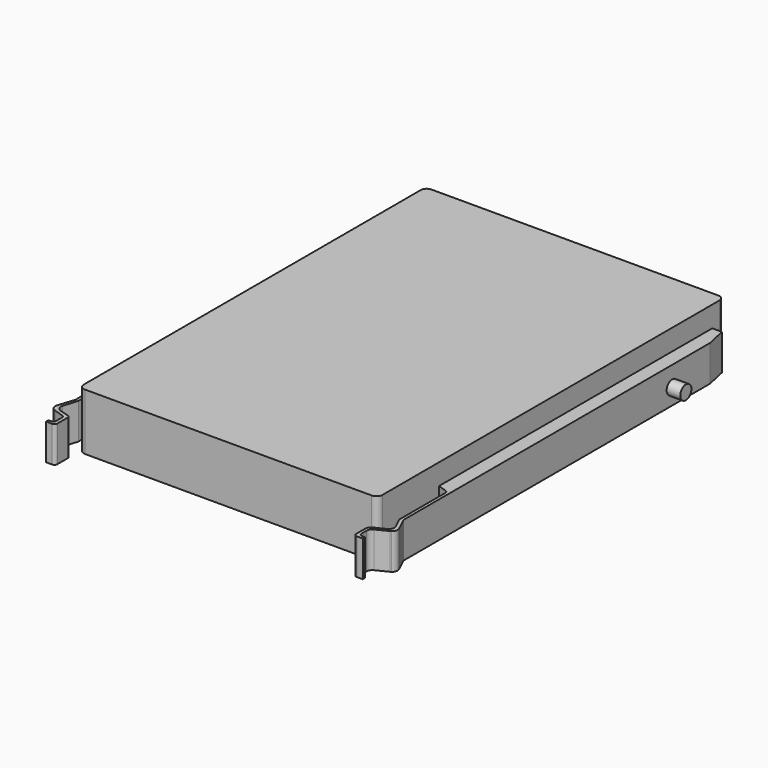
from build123d import *

# Parameters (mm, degrees)
F1_DEPTH       = 19
F3_DEPTH       = 4
F5_DEPTH       = 4
F7_DEPTH       = 12
F8_DEPTH       = 4
F10_DEPTH      = 12
F11_W          = 2
F11_H          = 107.7638715506
F12_DEPTH      = 1
F14_DEPTH      = 2
F16_DEPTH      = 2
F18_DEPTH      = 2
F20_DEPTH      = 2
F22_DEPTH      = 2
F24_DEPTH      = 2
F26_DEPTH      = 2
F28_DEPTH      = 2
F30_DEPTH      = 2
F32_DEPTH      = 2
F33_R          = 3
F34_DEPTH      = 2
F35_R          = 3
F36_DEPTH      = 2
F38_DEPTH      = 2
F39_R          = 2.3395924092
F40_DEPTH      = 4
F40_DEPTH_BACK = 114


with BuildPart() as f1:
    # F0 (on Top) → F1 (new body)
    with BuildSketch(Plane.XY):
        with BuildLine():
            Line((42.7619880306, 65.8262565434), (-53.2380119694, 65.8262565434))
            ThreePointArc((-53.2380119694, 65.8262565434), (-54.6522255318, 65.2404701058), (-55.2380119694, 63.8262565434))
            Line((-55.2380119694, 63.8262565434), (-55.2380119694, -77.1737434566))
            ThreePointArc((-55.2380119694, -77.1737434566), (-54.6522255318, -78.587957019), (-53.2380119694, -79.1737434566))
            Line((-53.2380119694, -79.1737434566), (42.7619880306, -79.1737434566))
            ThreePointArc((42.7619880306, -79.1737434566), (44.176201593, -78.587957019), (44.7619880306, -77.1737434566))
            Line((44.7619880306, -77.1737434566), (44.7619880306, 63.8262565434))
            ThreePointArc((44.7619880306, 63.8262565434), (44.176201593, 65.2404701058), (42.7619880306, 65.8262565434))
        make_face()
    extrude(amount=F1_DEPTH)

    # F2 (on face) → F3 (join)
    with BuildSketch(Plane(origin=(-55.2380119694, 0, 0), x_dir=(0, -1, 0), z_dir=(-1, 0, 0))):
        with BuildLine():
            ThreePointArc((63.1737434566, 4.5), (64.2344036284, 4.9393398282), (64.6737434566, 6))
            ThreePointArc((64.6737434566, 6), (62.1130832848, 7.0606601718), (63.1737434566, 4.5))
        make_face()
    extrude(amount=F3_DEPTH)

    # F4 (on face) → F5 (join)
    with BuildSketch(Plane.YZ.offset(44.7619880306)):
        with BuildLine():
            ThreePointArc((-63.1737434566, 7.5), (-64.2344036284, 4.9393398282), (-61.6737434566, 6))
            ThreePointArc((-61.6737434566, 6), (-62.1130832848, 7.0606601718), (-63.1737434566, 7.5))
        make_face()
    extrude(amount=F5_DEPTH)

    # F2 (on face) → F8 (join)
    with BuildSketch(Plane(origin=(-55.2380119694, 0, 0), x_dir=(0, -1, 0), z_dir=(-1, 0, 0))):
        with BuildLine():
            ThreePointArc((63.1737434566, 4.5), (64.2344036284, 4.9393398282), (64.6737434566, 6))
            ThreePointArc((64.6737434566, 6), (62.1130832848, 7.0606601718), (63.1737434566, 4.5))
        make_face()
    extrude(amount=F8_DEPTH)



with BuildPart() as f7:
    # F6 (on face) → F7 (new body)
    with BuildSketch(Plane(origin=(0, 0, 0), x_dir=(1, 0, 0), z_dir=(0, 0, -1))):
        with BuildLine():
            ThreePointArc((50.7473872358, 81.4127552126), (50.8106813082, 81.3782005687), (50.8726885358, 81.3413866208))
            Line((50.8726885358, 81.3413866208), (51.0768311213, 81.2405347477))
            Line((51.0768311213, 81.2405347477), (50.7473872358, 81.4127552126))
        make_face()
    extrude(amount=-F7_DEPTH)


with BuildPart() as f7b:
    # F6 (on face) → F7, piece 2 (new body)
    with BuildSketch(Plane(origin=(0, 0, 0), x_dir=(1, 0, 0), z_dir=(0, 0, -1))):
        with BuildLine():
            Line((44.7619880306, 88.1737434566), (44.7619880306, 84.4341421013))
            ThreePointArc((44.7619880306, 84.4341421013), (45.0699571154, 83.3678253651), (45.8990194125, 82.6299012182))
            Line((45.8990194125, 82.6299012182), (49.2725902382, 81.0163219112))
            ThreePointArc((49.2725902382, 81.0163219112), (50.2956235452, 79.8776610297), (50.2138625032, 78.34911241))
            Line((50.2138625032, 78.34911241), (48.4879252669, 74.7406306439))
            Line((48.4879252669, 74.7406306439), (48.4879252669, 55.4565798014))
            ThreePointArc((48.4879252669, 55.4565798014), (48.301018533, 54.8744463626), (47.8101665858, 54.5099222432))
            Line((47.8101665858, 54.5099222432), (44.7619880306, 53.4723252058))
            Line((44.7619880306, 53.4723252058), (44.7619880306, -60.8262565434))
            Line((44.7619880306, -60.8262565434), (47.9879252669, -60.8262565434))
            Line((47.9879252669, -60.8262565434), (49.4879252669, -53.9888593778))
            Line((49.4879252669, -53.9888593778), (49.4879252669, 54.7406306439))
            Line((49.4879252669, 54.7406306439), (49.4879252669, 74.3091463349))
            Line((49.4879252669, 74.3091463349), (51.6250725395, 78.7773603595))
            ThreePointArc((51.6250725395, 78.7773603595), (51.7399151029, 80.2034619333), (50.8726885358, 81.3413866208))
            Line((50.8726885358, 81.3413866208), (46.8761398711, 83.3157880804))
            ThreePointArc((46.8761398711, 83.3157880804), (46.063209599, 84.0533724123), (45.7619880306, 85.1089063248))
            Line((45.7619880306, 85.1089063248), (45.7619880306, 87.1737434566))
            ThreePointArc((45.7619880306, 87.1737434566), (46.0548812494, 87.8808502378), (46.7619880306, 88.1737434566))
            Line((46.7619880306, 88.1737434566), (47.7619880306, 88.1737434566))
            Line((47.7619880306, 88.1737434566), (47.7619880306, 89.1737434566))
            Line((47.7619880306, 89.1737434566), (45.7619880306, 89.1737434566))
            ThreePointArc((45.7619880306, 89.1737434566), (45.0548812494, 88.8808502378), (44.7619880306, 88.1737434566))
        make_face()
    extrude(amount=-F7_DEPTH)


with BuildPart() as f10:
    # F9 (on face) → F10 (new body)
    with BuildSketch(Plane(origin=(0, 0, 0), x_dir=(1, 0, 0), z_dir=(0, 0, -1))):
        with BuildLine():
            Line((-58.4640119694, -60.8262565434), (-55.2380119694, -60.8262565434))
            Line((-55.2380119694, -60.8262565434), (-55.2380119694, 53.5311406222))
            Line((-55.2380119694, 53.5311406222), (-57.9238443257, 54.3961429914))
            ThreePointArc((-57.9238443257, 54.3961429914), (-58.6763956823, 54.9406751916), (-58.9640119694, 55.8239224576))
            Line((-58.9640119694, 55.8239224576), (-58.9640119694, 74.7311406222))
            Line((-58.9640119694, 74.7311406222), (-60.405377813, 79.5228715347))
            ThreePointArc((-60.405377813, 79.5228715347), (-60.2526932963, 81.0441957807), (-59.0699161434, 82.0131014674))
            Line((-59.0699161434, 82.0131014674), (-55.9481283547, 82.958656947))
            ThreePointArc((-55.9481283547, 82.958656947), (-55.4349292792, 83.3198512554), (-55.2380119694, 83.9157188519))
            Line((-55.2380119694, 83.9157188519), (-55.2380119694, 88.1737434566))
            ThreePointArc((-55.2380119694, 88.1737434566), (-55.5309051882, 88.8808502378), (-56.2380119694, 89.1737434566))
            Line((-56.2380119694, 89.1737434566), (-58.2380119694, 89.1737434566))
            Line((-58.2380119694, 89.1737434566), (-58.2380119694, 88.1737434566))
            Line((-58.2380119694, 88.1737434566), (-57.3981433875, 88.1737434566))
            ThreePointArc((-57.3981433875, 88.1737434566), (-56.6910366063, 87.8808502378), (-56.3981433875, 87.1737434566))
            Line((-56.3981433875, 87.1737434566), (-56.3981433875, 84.7853054984))
            ThreePointArc((-56.3981433875, 84.7853054984), (-56.5905936647, 84.1955060025), (-57.0938702781, 83.8327206597))
            Line((-57.0938702781, 83.8327206597), (-60.4311745945, 82.7667243097))
            ThreePointArc((-60.4311745945, 82.7667243097), (-61.6000939319, 81.7784058726), (-61.7277980532, 80.2530084136))
            Line((-61.7277980532, 80.2530084136), (-59.9640119694, 74.7311406222))
            Line((-59.9640119694, 74.7311406222), (-59.9640119694, -53.9888593778))
            Line((-59.9640119694, -53.9888593778), (-58.4640119694, -60.8262565434))
        make_face()
    extrude(amount=-F10_DEPTH)


with BuildPart() as f1_1:
    add(f1.part)

    add(f7b.part)  # F12 merges F7b

    add(f10.part)  # F12 merges F10
    # F11 (on face) → F12 (join)
    with BuildSketch(Plane(origin=(0, 0, 0), x_dir=(1, 0, 0), z_dir=(0, 0, -1))):
        with Locations((45.7619880306, -0.3440156579)):
            Rectangle(F11_W, F11_H)
        Polygon((44.7619880306, -54.2259514332), (44.7619880306, 53.5379201174), (-57.2380119694, 53.5379201174), (-57.2380119694, -54.2259514332), (-55.2380119694, -54.2259514332), align=None)
    extrude(amount=F12_DEPTH)

    # F13 (on face) → F14 (cut)
    with BuildSketch(Plane(origin=(0, 0, -1), x_dir=(1, 0, 0), z_dir=(0, 0, -1))):
        with BuildLine():
            Line((-42.7380119694, 47.5379201174), (-53.7380119694, 47.5379201174))
            ThreePointArc((-53.7380119694, 47.5379201174), (-54.7986721412, 47.0985802892), (-55.2380119694, 46.0379201174))
            Line((-55.2380119694, 46.0379201174), (-55.2380119694, 23.0379201174))
            ThreePointArc((-55.2380119694, 23.0379201174), (-54.7986721412, 21.9772599456), (-53.7380119694, 21.5379201174))
            Line((-53.7380119694, 21.5379201174), (-42.7380119694, 21.5379201174))
            ThreePointArc((-42.7380119694, 21.5379201174), (-41.6773517976, 21.9772599456), (-41.2380119694, 23.0379201174))
            Line((-41.2380119694, 23.0379201174), (-41.2380119694, 46.0379201174))
            ThreePointArc((-41.2380119694, 46.0379201174), (-41.6773517976, 47.0985802892), (-42.7380119694, 47.5379201174))
        make_face()
    extrude(amount=-F14_DEPTH, mode=Mode.SUBTRACT)

    # F15 (on face) → F16 (cut)
    with BuildSketch(Plane(origin=(0, 0, -1), x_dir=(1, 0, 0), z_dir=(0, 0, -1))):
        with BuildLine():
            Line((-11.2380119694, 47.5379201174), (-31.2380119694, 47.5379201174))
            ThreePointArc((-31.2380119694, 47.5379201174), (-32.2986721412, 47.0985802892), (-32.7380119694, 46.0379201174))
            Line((-32.7380119694, 46.0379201174), (-32.7380119694, 23.0379201174))
            ThreePointArc((-32.7380119694, 23.0379201174), (-32.2986721412, 21.9772599456), (-31.2380119694, 21.5379201174))
            Line((-31.2380119694, 21.5379201174), (-11.2380119694, 21.5379201174))
            ThreePointArc((-11.2380119694, 21.5379201174), (-10.1773517976, 21.9772599456), (-9.7380119694, 23.0379201174))
            Line((-9.7380119694, 23.0379201174), (-9.7380119694, 46.0379201174))
            ThreePointArc((-9.7380119694, 46.0379201174), (-10.1773517976, 47.0985802892), (-11.2380119694, 47.5379201174))
        make_face()
    extrude(amount=-F16_DEPTH, mode=Mode.SUBTRACT)

    # F17 (on face) → F18 (cut)
    with BuildSketch(Plane(origin=(0, 0, -1), x_dir=(1, 0, 0), z_dir=(0, 0, -1))):
        with BuildLine():
            Line((20.7619880306, 47.5379201174), (0.7619880306, 47.5379201174))
            ThreePointArc((0.7619880306, 47.5379201174), (-0.2986721412, 47.0985802892), (-0.7380119694, 46.0379201174))
            Line((-0.7380119694, 46.0379201174), (-0.7380119694, 23.0379201174))
            ThreePointArc((-0.7380119694, 23.0379201174), (-0.2986721412, 21.9772599456), (0.7619880306, 21.5379201174))
            Line((0.7619880306, 21.5379201174), (20.7619880306, 21.5379201174))
            ThreePointArc((20.7619880306, 21.5379201174), (21.8226482024, 21.9772599456), (22.2619880306, 23.0379201174))
            Line((22.2619880306, 23.0379201174), (22.2619880306, 46.0379201174))
            ThreePointArc((22.2619880306, 46.0379201174), (21.8226482024, 47.0985802892), (20.7619880306, 47.5379201174))
        make_face()
    extrude(amount=-F18_DEPTH, mode=Mode.SUBTRACT)

    # F19 (on face) → F20 (cut)
    with BuildSketch(Plane(origin=(0, 0, -1), x_dir=(1, 0, 0), z_dir=(0, 0, -1))):
        with BuildLine():
            Line((43.2619880306, 47.5379201174), (32.2619880306, 47.5379201174))
            ThreePointArc((32.2619880306, 47.5379201174), (31.2013278588, 47.0985802892), (30.7619880306, 46.0379201174))
            Line((30.7619880306, 46.0379201174), (30.7619880306, 23.0379201174))
            ThreePointArc((30.7619880306, 23.0379201174), (31.2013278588, 21.9772599456), (32.2619880306, 21.5379201174))
            Line((32.2619880306, 21.5379201174), (43.2619880306, 21.5379201174))
            ThreePointArc((43.2619880306, 21.5379201174), (44.3226482024, 21.9772599456), (44.7619880306, 23.0379201174))
            Line((44.7619880306, 23.0379201174), (44.7619880306, 46.0379201174))
            ThreePointArc((44.7619880306, 46.0379201174), (44.3226482024, 47.0985802892), (43.2619880306, 47.5379201174))
        make_face()
    extrude(amount=-F20_DEPTH, mode=Mode.SUBTRACT)

    # F21 (on face) → F22 (cut)
    with BuildSketch(Plane(origin=(0, 0, -1), x_dir=(1, 0, 0), z_dir=(0, 0, -1))):
        with BuildLine():
            Line((-11.2380119694, 12.5379201174), (-53.7380119694, 12.5379201174))
            ThreePointArc((-53.7380119694, 12.5379201174), (-54.7986721412, 12.0985802892), (-55.2380119694, 11.0379201174))
            Line((-55.2380119694, 11.0379201174), (-55.2380119694, -12.9732799381))
            ThreePointArc((-55.2380119694, -12.9732799381), (-54.7986721412, -14.0339401099), (-53.7380119694, -14.4732799381))
            Line((-53.7380119694, -14.4732799381), (-11.2380119694, -14.4732799381))
            ThreePointArc((-11.2380119694, -14.4732799381), (-10.1773517976, -14.0339401099), (-9.7380119694, -12.9732799381))
            Line((-9.7380119694, -12.9732799381), (-9.7380119694, 11.0379201174))
            ThreePointArc((-9.7380119694, 11.0379201174), (-10.1773517976, 12.0985802892), (-11.2380119694, 12.5379201174))
        make_face()
    extrude(amount=-F22_DEPTH, mode=Mode.SUBTRACT)

    # F23 (on face) → F24 (cut)
    with BuildSketch(Plane(origin=(0, 0, -1), x_dir=(1, 0, 0), z_dir=(0, 0, -1))):
        with BuildLine():
            Line((43.2619880306, 12.5379201174), (0.7619880306, 12.5379201174))
            ThreePointArc((0.7619880306, 12.5379201174), (-0.2986721412, 12.0985802892), (-0.7380119694, 11.0379201174))
            Line((-0.7380119694, 11.0379201174), (-0.7380119694, -12.9620798826))
            ThreePointArc((-0.7380119694, -12.9620798826), (-0.2986721412, -14.0227400544), (0.7619880306, -14.4620798826))
            Line((0.7619880306, -14.4620798826), (43.2619880306, -14.4620798826))
            ThreePointArc((43.2619880306, -14.4620798826), (44.3226482024, -14.0227400544), (44.7619880306, -12.9620798826))
            Line((44.7619880306, -12.9620798826), (44.7619880306, 11.0379201174))
            ThreePointArc((44.7619880306, 11.0379201174), (44.3226482024, 12.0985802892), (43.2619880306, 12.5379201174))
        make_face()
    extrude(amount=-F24_DEPTH, mode=Mode.SUBTRACT)

    # F25 (on face) → F26 (cut)
    with BuildSketch(Plane(origin=(0, 0, -1), x_dir=(1, 0, 0), z_dir=(0, 0, -1))):
        with BuildLine():
            ThreePointArc((-9.7380119694, -24.9732799381), (-10.1773517976, -23.9126197663), (-11.2380119694, -23.4732799381))
            Line((-11.2380119694, -23.4732799381), (-31.2380119694, -23.4732799381))
            ThreePointArc((-31.2380119694, -23.4732799381), (-32.2986721412, -23.9126197663), (-32.7380119694, -24.9732799381))
            Line((-32.7380119694, -24.9732799381), (-32.7380119694, -47.9732799381))
            ThreePointArc((-32.7380119694, -47.9732799381), (-32.2986721412, -49.0339401099), (-31.2380119694, -49.4732799381))
            Line((-31.2380119694, -49.4732799381), (-11.2380119694, -49.4732799381))
            ThreePointArc((-11.2380119694, -49.4732799381), (-10.1773517976, -49.0339401099), (-9.7380119694, -47.9732799381))
            Line((-9.7380119694, -47.9732799381), (-9.7380119694, -24.9732799381))
        make_face()
    extrude(amount=-F26_DEPTH, mode=Mode.SUBTRACT)

    # F27 (on face) → F28 (cut)
    with BuildSketch(Plane(origin=(0, 0, -1), x_dir=(1, 0, 0), z_dir=(0, 0, -1))):
        with BuildLine():
            Line((20.7619880306, -23.4732799381), (0.7619880306, -23.4732799381))
            ThreePointArc((0.7619880306, -23.4732799381), (-0.2986721412, -23.9126197663), (-0.7380119694, -24.9732799381))
            Line((-0.7380119694, -24.9732799381), (-0.7380119694, -47.9732799381))
            ThreePointArc((-0.7380119694, -47.9732799381), (-0.2986721412, -49.0339401099), (0.7619880306, -49.4732799381))
            Line((0.7619880306, -49.4732799381), (20.7619880306, -49.4732799381))
            ThreePointArc((20.7619880306, -49.4732799381), (21.8226482024, -49.0339401099), (22.2619880306, -47.9732799381))
            Line((22.2619880306, -47.9732799381), (22.2619880306, -24.9732799381))
            ThreePointArc((22.2619880306, -24.9732799381), (21.8226482024, -23.9126197663), (20.7619880306, -23.4732799381))
        make_face()
    extrude(amount=-F28_DEPTH, mode=Mode.SUBTRACT)

    # F29 (on face) → F30 (cut)
    with BuildSketch(Plane(origin=(0, 0, -1), x_dir=(1, 0, 0), z_dir=(0, 0, -1))):
        with BuildLine():
            Line((42.8226482024, -23.4732799381), (32.2619880306, -23.4732799381))
            ThreePointArc((32.2619880306, -23.4732799381), (31.2013278588, -23.9126197663), (30.7619880306, -24.9732799381))
            Line((30.7619880306, -24.9732799381), (30.7619880306, -47.9732799381))
            ThreePointArc((30.7619880306, -47.9732799381), (31.2013278588, -49.0339401099), (32.2619880306, -49.4732799381))
            Line((32.2619880306, -49.4732799381), (42.8226482024, -49.4732799381))
            ThreePointArc((42.8226482024, -49.4732799381), (43.8833083742, -49.0339401099), (44.3226482024, -47.9732799381))
            Line((44.3226482024, -47.9732799381), (44.3226482024, -24.9732799381))
            ThreePointArc((44.3226482024, -24.9732799381), (43.8833083742, -23.9126197663), (42.8226482024, -23.4732799381))
        make_face()
    extrude(amount=-F30_DEPTH, mode=Mode.SUBTRACT)

    # F31 (on face) → F32 (cut)
    with BuildSketch(Plane(origin=(0, 0, -1), x_dir=(1, 0, 0), z_dir=(0, 0, -1))):
        with BuildLine():
            ThreePointArc((-41.2380119694, -24.9732799381), (-41.6773517976, -23.9126197663), (-42.7380119694, -23.4732799381))
            Line((-42.7380119694, -23.4732799381), (-53.7380119694, -23.4732799381))
            ThreePointArc((-53.7380119694, -23.4732799381), (-54.7986721412, -23.9126197663), (-55.2380119694, -24.9732799381))
            Line((-55.2380119694, -24.9732799381), (-55.2380119694, -47.9732799381))
            ThreePointArc((-55.2380119694, -47.9732799381), (-54.7986721412, -49.0339401099), (-53.7380119694, -49.4732799381))
            Line((-53.7380119694, -49.4732799381), (-42.7380119694, -49.4732799381))
            ThreePointArc((-42.7380119694, -49.4732799381), (-41.6773517976, -49.0339401099), (-41.2380119694, -47.9732799381))
            Line((-41.2380119694, -47.9732799381), (-41.2380119694, -24.9732799381))
        make_face()
    extrude(amount=-F32_DEPTH, mode=Mode.SUBTRACT)

    # F33 (on face) → F34 (cut)
    with BuildSketch(Plane(origin=(0, 0, -1), x_dir=(1, 0, 0), z_dir=(0, 0, -1))):
        with Locations((-5.1650339738, -19.182857126)):
            Circle(F33_R)
    extrude(amount=-F34_DEPTH, mode=Mode.SUBTRACT)

    # F35 (on face) → F36 (cut)
    with BuildSketch(Plane(origin=(0, 0, -1), x_dir=(1, 0, 0), z_dir=(0, 0, -1))):
        with Locations((-5.1650339738, 16.0541039921)):
            Circle(F35_R)
    extrude(amount=-F36_DEPTH, mode=Mode.SUBTRACT)

    # F37 (on face) → F38 (cut)
    with BuildSketch(Plane(origin=(0, 0, 0), x_dir=(1, 0, 0), z_dir=(0, 0, -1))):
        with BuildLine():
            Line((-9.5795041546, 58.3082698286), (-1.5, 58.3082698286))
            ThreePointArc((-1.5, 58.3082698286), (-0.4393398282, 58.7476096568), (0, 59.8082698286))
            Line((0, 59.8082698286), (0, 60.4804039598))
            ThreePointArc((0, 60.4804039598), (-0.4393398282, 61.5410641315), (-1.5, 61.9804039598))
            Line((-1.5, 61.9804039598), (-9.5795041546, 61.9804039598))
            ThreePointArc((-9.5795041546, 61.9804039598), (-10.6401643264, 61.5410641315), (-11.0795041546, 60.4804039598))
            Line((-11.0795041546, 60.4804039598), (-11.0795041546, 59.8082698286))
            ThreePointArc((-11.0795041546, 59.8082698286), (-10.6401643264, 58.7476096568), (-9.5795041546, 58.3082698286))
        make_face()
    extrude(amount=-F38_DEPTH, mode=Mode.SUBTRACT)

    # F39 (on face) → F40 (join, two sides)
    with BuildSketch(Plane(origin=(-59.9640119694, 0, 0), x_dir=(0, -1, 0), z_dir=(-1, 0, 0))) as f40_sk:
        with Locations((-38.1708554924, 5.3622522391)):
            Circle(F39_R)
    extrude(amount=F40_DEPTH)
    extrude(f40_sk.sketch, amount=-F40_DEPTH_BACK)


solid = Compound([f7.part, f1_1.part])
